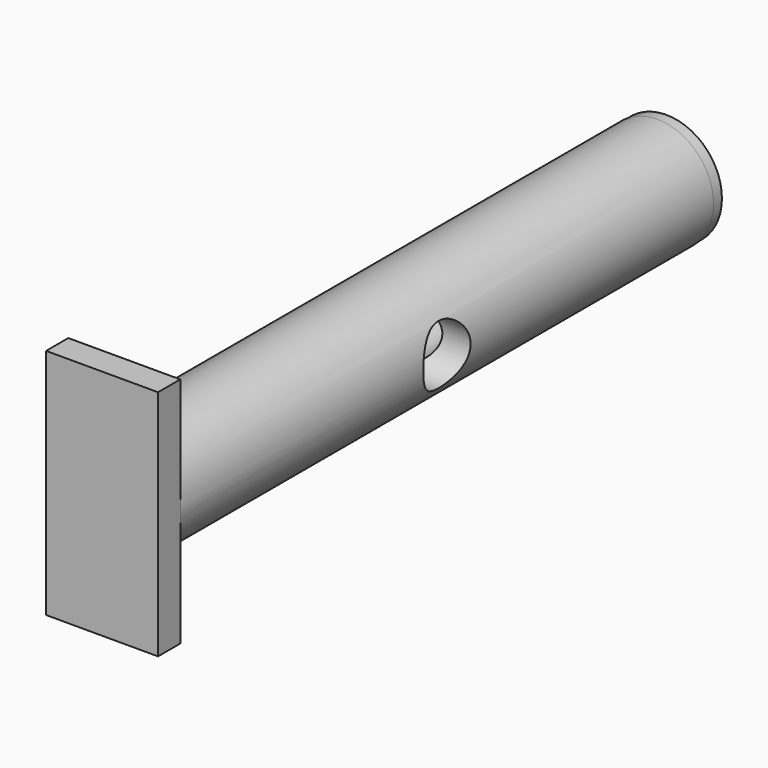
from build123d import *

# Parameters (mm, degrees)
F1_R           = 12.826844
F2_DEPTH       = 76.2
F2_DEPTH_BACK  = 76.2
F3_D           = 12.7
F4_D           = 12.7
F5_W           = 25.60015
F5_H           = 53.179082
F6_DEPTH       = 6.35
F8_R           = 12.706951
F9_DEPTH       = 2.54
F11_D          = 6.35
F10_R          = 6.772229
F12_DEPTH      = 50.8
F12_DEPTH_BACK = 50.8


with BuildPart() as f2:
    # F1 (on Front) → F2 (new body, two sides)
    with BuildSketch(Plane.XZ) as f2_sk:
        Circle(F1_R)
    extrude(amount=F2_DEPTH)
    extrude(f2_sk.sketch, amount=-F2_DEPTH_BACK)

    # F3 (through all)
    with Locations(Plane.XZ):
        with Locations((0, 0)):
            Hole(F3_D / 2)

    # F4 (through all)
    with Locations(Plane(origin=(0, 0, 0), x_dir=(1, 0, 0), z_dir=(0, 1, 0))):
        with Locations((0, 0)):
            Hole(F4_D / 2)

    # F5 (on offset) → F6 (join)
    with BuildSketch(Plane.XZ.offset(76.2)):
        Rectangle(F5_W, F5_H)
    extrude(amount=F6_DEPTH)

    # F8 (on offset) → F9 (join)
    with BuildSketch(Plane.XZ.offset(-76.2)):
        Circle(F8_R)
    extrude(amount=-F9_DEPTH)

    # F11 (through all)
    with Locations(Plane.YZ):
        with Locations((0, 0)):
            Hole(F11_D / 2)

    # F10 (on Right) → F12 (cut, two sides)
    with BuildSketch(Plane.YZ) as f12_sk:
        Circle(F10_R)
    extrude(amount=F12_DEPTH, mode=Mode.SUBTRACT)
    extrude(f12_sk.sketch, amount=-F12_DEPTH_BACK, mode=Mode.SUBTRACT)


solid = f2.part
